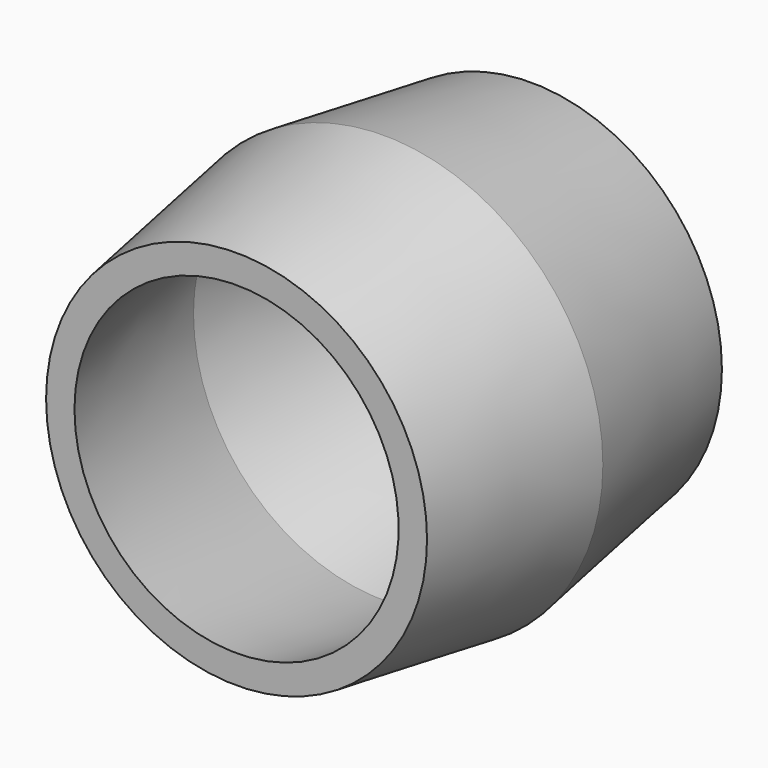
from build123d import *

# Parameters (mm, degrees)
F2_R = 26.2509
F0_R = 30.1625
F5_R = 26.2509
F4_R = 22.3393


with BuildPart() as f3:
    # F2 (on offset) → F3 section 0
    with BuildSketch(Plane.XZ.offset(25.4)):
        Circle(F2_R)
    # F0 (on Front) → F3 section 1
    with BuildSketch(Plane.XZ):
        Circle(F0_R)
    loft()

    # F5 (on face) → F6 section 0
    with BuildSketch(Plane(origin=(0, 0, 0), x_dir=(-1, 0, 0), z_dir=(0, 1, 0))):
        Circle(F5_R)
    # F4 (on face) → F6 section 1
    with BuildSketch(Plane.XZ.offset(25.4)):
        Circle(F4_R)
    loft(mode=Mode.SUBTRACT)

    # F7: F3 across face


with BuildPart() as f3_1:
    add(f3.part)
    add(f3.part.mirror(Plane(origin=(0, 0, 0), x_dir=(-1, 0, 0), z_dir=(0, 1, 0))))


solid = f3_1.part
